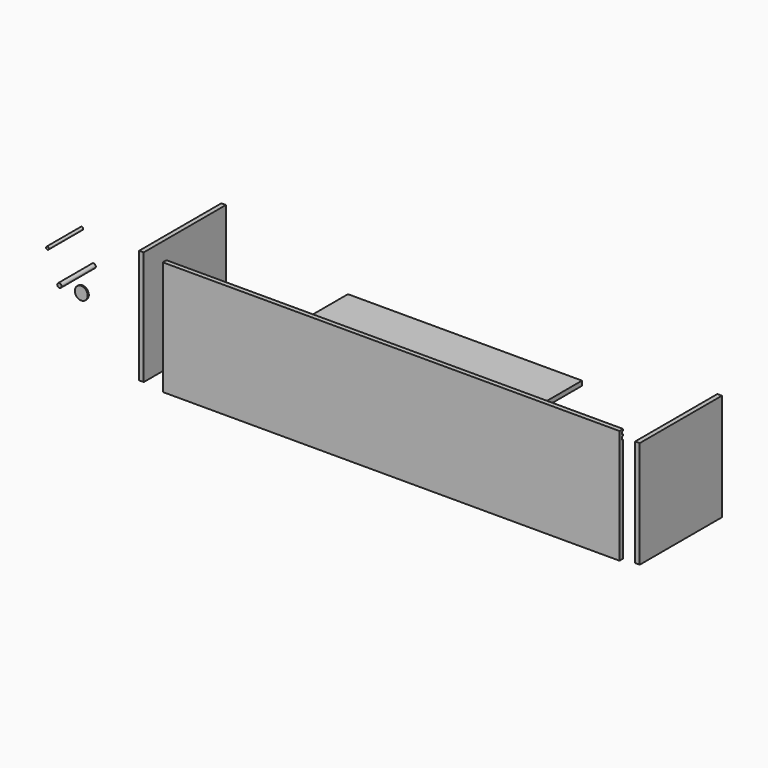
from build123d import *

# Parameters (mm, degrees)
F0_W      = 1600
F0_H      = 400
F1_DEPTH  = 16
F2_W      = 16
F2_H      = 400
F3_DEPTH  = 360
F4_R      = 7.5
F5_DEPTH  = 150
F6_R      = 22.6000160451
F7_DEPTH  = 5
F8_R      = 5
F9_DEPTH  = 150
F11_DEPTH = 25
F12_W     = 5
F12_H     = 10
F12_H_2   = 11.1646950245
F13_DEPTH = 1982.470792366
F14_W     = 820
F14_H     = 360
F15_DEPTH = 16


with BuildPart() as f1:
    # F0 (on Front) → F1 (new body)
    with BuildSketch(Plane.XZ):
        Rectangle(F0_W, F0_H)
    extrude(amount=F1_DEPTH)

    # F12 (on face) → F13 (cut, through all)
    with BuildSketch(Plane.YZ.offset(800)):
        with Locations((-2.5, 189.2690259218)):
            Rectangle(F12_W, F12_H)
        with Locations((-2.5, 173.0364263058)):
            Rectangle(F12_W, F12_H_2)
    extrude(amount=-F13_DEPTH, mode=Mode.SUBTRACT)


with BuildPart() as f3:
    # F2 (on face) → F3 (new body)
    with BuildSketch(Plane(origin=(0, 0, 0), x_dir=(-1, 0, 0), z_dir=(0, 1, 0))):
        with Locations((887.4577121735, -1.7694413662)):
            Rectangle(F2_W, F2_H)
    extrude(amount=F3_DEPTH)


with BuildPart() as f3b:
    # F2 (on face) → F3, piece 2 (new body)
    with BuildSketch(Plane(origin=(0, 0, 0), x_dir=(-1, 0, 0), z_dir=(0, 1, 0))):
        Rectangle(F2_W, F2_H)
    extrude(amount=F3_DEPTH)


with BuildPart() as f5:
    # F4 (on face) → F5 (new body)
    with BuildSketch(Plane(origin=(0, 0, 0), x_dir=(-1, 0, 0), z_dir=(0, 1, 0))):
        with Locations((1174.969792366, 0)):
            Circle(F4_R)
    extrude(amount=F5_DEPTH)


with BuildPart() as f7:
    # F6 (on face) → F7 (new body)
    with BuildSketch(Plane.XZ.offset(16)):
        with Locations((-1081.6255807877, 15.1271261275)):
            Circle(F6_R)
    extrude(amount=F7_DEPTH)


with BuildPart() as f9:
    # F8 (on Front) → F9 (new body)
    with BuildSketch(Plane.XZ):
        with Locations((-1096.5507030487, 201.8291354179)):
            Circle(F8_R)
    extrude(amount=F9_DEPTH)


with BuildPart() as f3b_1:
    # F10: moved
    add(f3b.part.moved(Location((850, 0, 0))))

    # F11 (cut): a face of the model
    f11_faces = [f3b_1.faces().sort_by_distance(p)[0] for p in [
        (850, 180, 200),
    ]]
    extrude(f11_faces, amount=-F11_DEPTH, mode=Mode.SUBTRACT)


with BuildPart() as f15:
    # F14 (on Top) → F15 (new body)
    with BuildSketch(Plane.XY):
        with Locations((-97.4464452267, 249.1268518567)):
            Rectangle(F14_W, F14_H)
    extrude(amount=F15_DEPTH)


solid = Compound([f1.part, f3.part, f5.part, f7.part, f9.part, f3b_1.part, f15.part])
